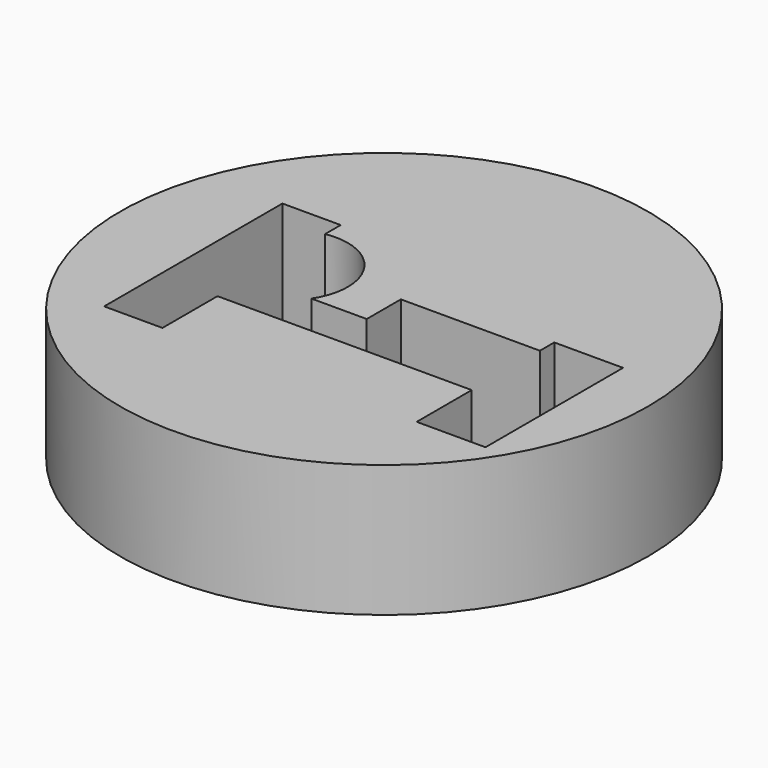
from build123d import *

# Parameters (mm, degrees)
F0_R     = 50.8
F1_DEPTH = 25.4
F2_DEPTH = 25.4


with BuildPart() as f1:
    # F0 (on Top) → F1 (new body)
    with BuildSketch(Plane.XY):
        with Locations((-14.96590022, 9.497590363)):
            Circle(F0_R)
        with BuildLine():
            Line((-37.126943469, -16.1171220243), (-48.3513660729, -16.1171220243))
            Line((-48.3513660729, -16.1171220243), (-48.3513660729, 26.7659369856))
            Line((-48.3513660729, 26.7659369856), (-37.126943469, 26.7659369856))
            Line((-37.126943469, 26.7659369856), (-37.126943469, 23.0244621634))
            ThreePointArc((-37.126943469, 23.0244621634), (-25.562868863, 17.9519693026), (-25.6147123873, 5.3244074807))
            Line((-25.6147123873, 5.3244074807), (-14.96590022, 5.3244074807))
            Line((-14.96590022, 5.3244074807), (-14.96590022, 9.497590363))
            Line((-14.96590022, 9.497590363), (-14.96590022, 13.5268708691))
            Line((-14.96590022, 13.5268708691), (11.800034903, 13.5268708691))
            Line((11.800034903, 13.5268708691), (11.800034903, 16.9805400074))
            Line((11.800034903, 16.9805400074), (25.0390991569, 16.9805400074))
            Line((25.0390991569, 16.9805400074), (25.0390991569, -16.1171220243))
            Line((25.0390991569, -16.1171220243), (11.800034903, -16.1171220243))
            Line((11.800034903, -16.1171220243), (11.800034903, -2.8780577704))
            Line((11.800034903, -2.8780577704), (-37.126943469, -2.8780577704))
            Line((-37.126943469, -2.8780577704), (-37.126943469, -16.1171220243))
        make_face(mode=Mode.SUBTRACT)
    extrude(amount=F1_DEPTH)

    # F0 (on Top) → F2 (join)
    with BuildSketch(Plane.XY):
        with Locations((-14.96590022, 9.497590363)):
            Circle(F0_R)
        with BuildLine():
            Line((-37.126943469, -16.1171220243), (-48.3513660729, -16.1171220243))
            Line((-48.3513660729, -16.1171220243), (-48.3513660729, 26.7659369856))
            Line((-48.3513660729, 26.7659369856), (-37.126943469, 26.7659369856))
            Line((-37.126943469, 26.7659369856), (-37.126943469, 23.0244621634))
            ThreePointArc((-37.126943469, 23.0244621634), (-25.562868863, 17.9519693026), (-25.6147123873, 5.3244074807))
            Line((-25.6147123873, 5.3244074807), (-14.96590022, 5.3244074807))
            Line((-14.96590022, 5.3244074807), (-14.96590022, 9.497590363))
            Line((-14.96590022, 9.497590363), (-14.96590022, 13.5268708691))
            Line((-14.96590022, 13.5268708691), (11.800034903, 13.5268708691))
            Line((11.800034903, 13.5268708691), (11.800034903, 16.9805400074))
            Line((11.800034903, 16.9805400074), (25.0390991569, 16.9805400074))
            Line((25.0390991569, 16.9805400074), (25.0390991569, -16.1171220243))
            Line((25.0390991569, -16.1171220243), (11.800034903, -16.1171220243))
            Line((11.800034903, -16.1171220243), (11.800034903, -2.8780577704))
            Line((11.800034903, -2.8780577704), (-37.126943469, -2.8780577704))
            Line((-37.126943469, -2.8780577704), (-37.126943469, -16.1171220243))
        make_face(mode=Mode.SUBTRACT)
    extrude(amount=F2_DEPTH)


solid = f1.part
